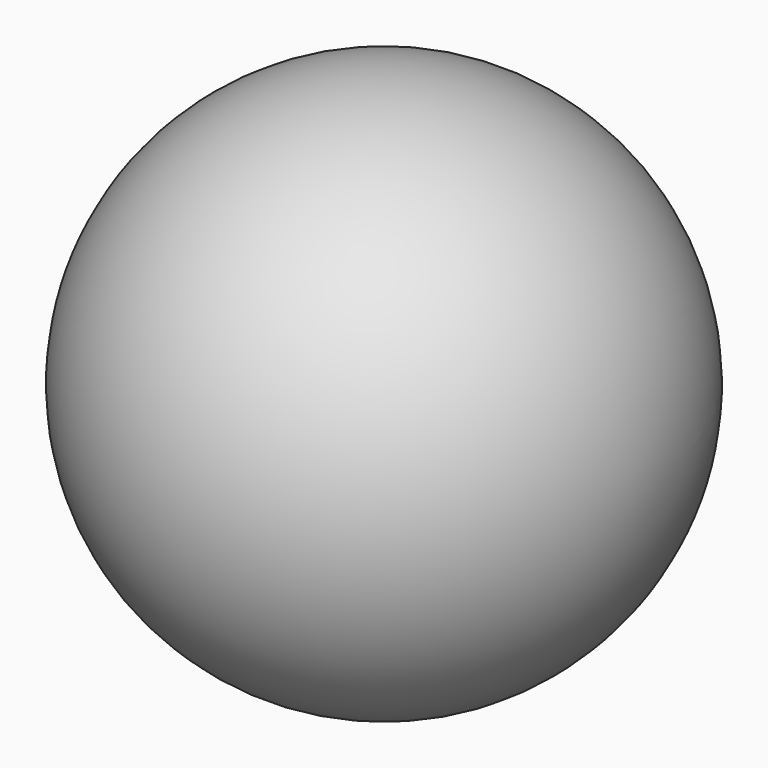
from build123d import *


with BuildPart() as f1:
    # F0 (on Top) → F1 (revolve)
    with BuildSketch(Plane.XY):
        with BuildLine():
            Line((18.75, 0), (20, 0))
            ThreePointArc((20, 0), (0, 20), (-20, 0))
            Line((-20, 0), (-18.75, 0))
            ThreePointArc((-18.75, 0), (0, 18.75), (18.75, 0))
        make_face()
    revolve(axis=Axis((0, 0, 0), (1, 0, 0)))


solid = f1.part
